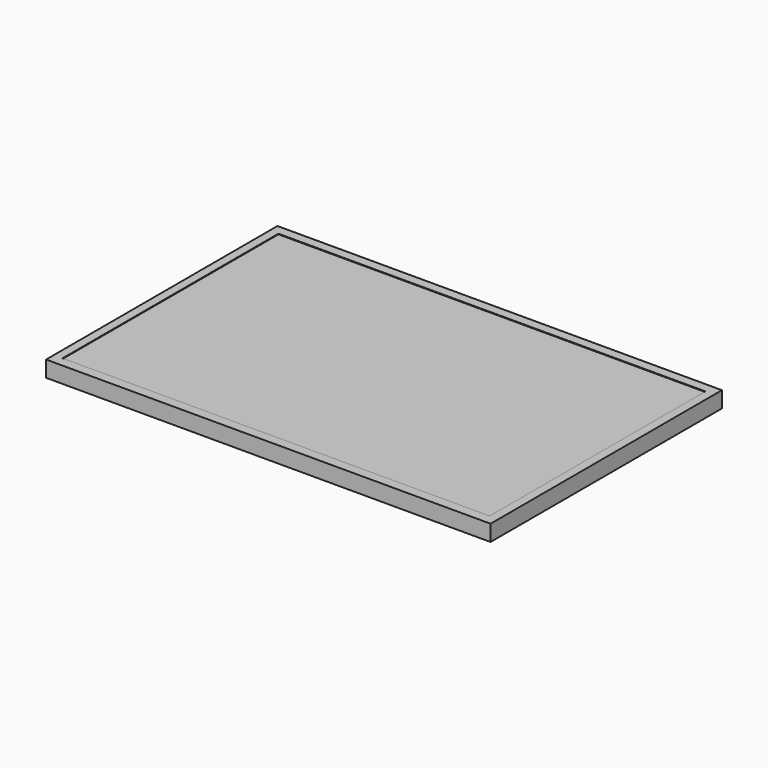
from build123d import *

# Parameters (mm, degrees)
F0_W          = 220
F0_H          = 139
F1_DEPTH      = 8
F0_W_2        = 229
F0_H_2        = 149
F2_DEPTH      = 0.3
F2_DEPTH_BACK = 8


with BuildPart() as f1:
    # F0 (on Top) → F1 (new body)
    with BuildSketch(Plane.XY):
        Rectangle(F0_W, F0_H)
    extrude(amount=-F1_DEPTH)

    # F0 (on Top) → F2 (join, two sides)
    with BuildSketch(Plane.XY) as f2_sk:
        Rectangle(F0_W_2, F0_H_2)
        Rectangle(F0_W, F0_H, mode=Mode.SUBTRACT)
    extrude(amount=F2_DEPTH)
    extrude(f2_sk.sketch, amount=-F2_DEPTH_BACK)


solid = f1.part
